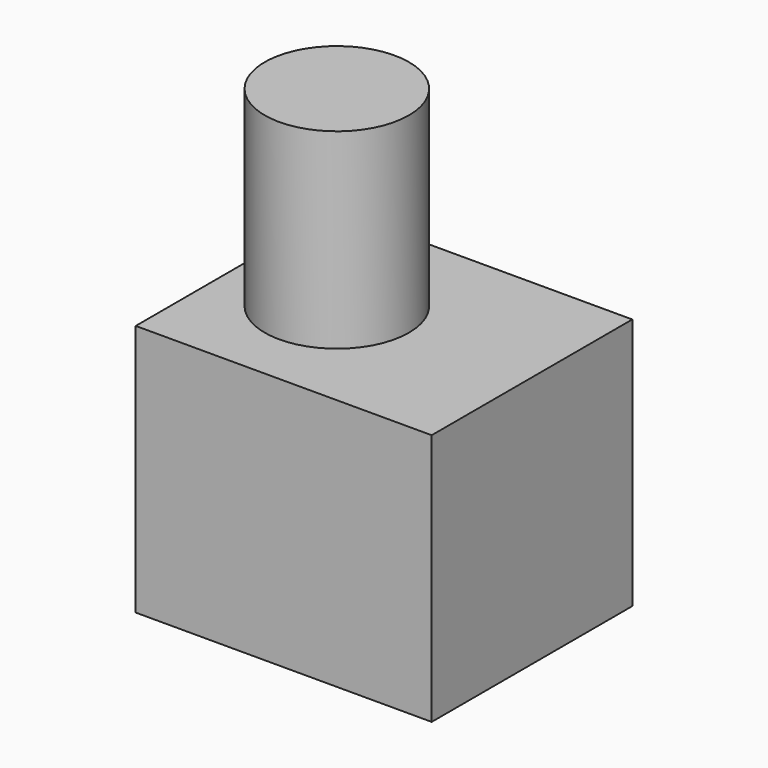
from build123d import *

# Parameters (mm, degrees)
F0_W     = 85.86593
F0_H     = 86.42776
F1_DEPTH = 101.346
F2_R     = 24.690096
F3_DEPTH = 65.532


with BuildPart() as f1:
    # F0 (on Right) → F1 (new body)
    with BuildSketch(Plane.YZ):
        with Locations((12.353346, 3.995495)):
            Rectangle(F0_W, F0_H)
    extrude(amount=F1_DEPTH)

    # F2 (on face) → F3 (join)
    with BuildSketch(Plane.XY.offset(47.209375)):
        with Locations((34.82642, 11.976354)):
            Circle(F2_R)
    extrude(amount=F3_DEPTH)


solid = f1.part
